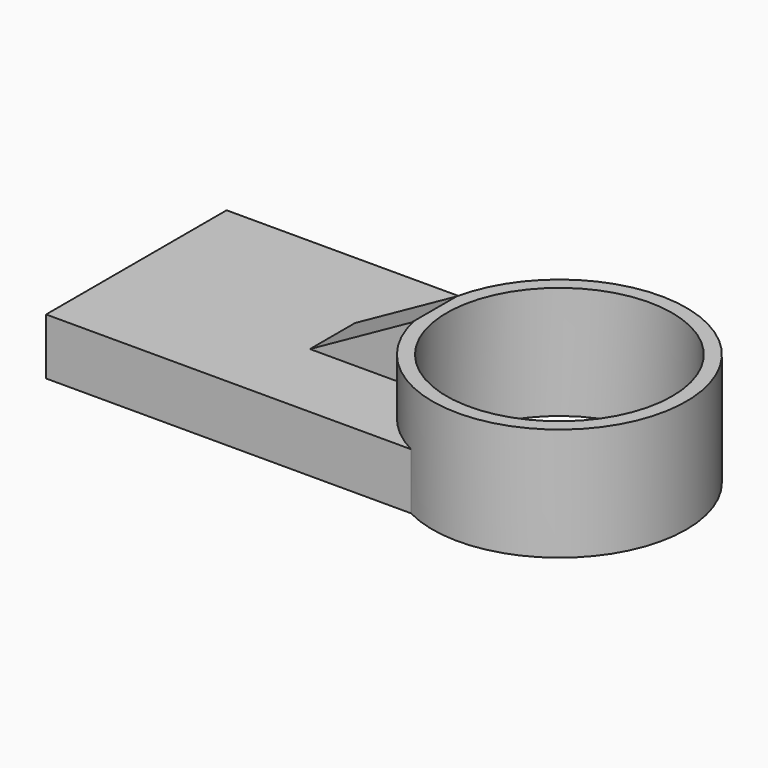
from build123d import *

# Parameters (mm, degrees)
F0_W     = 177.8
F0_H     = 101.6
F1_DEPTH = 25.4
F2_R     = 57.15
F2_R_2   = 50.8
F3_DEPTH = 50.8
F4_DEPTH = 25.4
F6_DEPTH = 25.4
F8_DEPTH = 25.4


with BuildPart() as f1:
    # F0 (on Top) → F1 (new body)
    with BuildSketch(Plane.XY):
        Rectangle(F0_W, F0_H)
    extrude(amount=F1_DEPTH)

    # F2 (on Top) → F3 (join)
    with BuildSketch(Plane.XY):
        with Locations((101.6, 0)):
            Circle(F2_R)
        with Locations((101.6, 0)):
            Circle(F2_R_2, mode=Mode.SUBTRACT)
    extrude(amount=F3_DEPTH)

    # F2 (on Top) + F3_face (on face) → F4 (cut)
    with BuildSketch(Plane.XY):
        with Locations((101.6, 0)):
            Circle(F2_R)
        with Locations((101.6, 0)):
            Circle(F2_R_2, mode=Mode.SUBTRACT)
    with BuildSketch(Plane(origin=(73.0309989911, 0, 25.4), x_dir=(1, 0, 0), z_dir=(0, 0, 1))):
        with BuildLine():
            ThreePointArc((15.8690010089, 49.1868884968), (-22.2309989911, 0), (15.8690010089, -49.1868884968))
            Line((15.8690010089, -49.1868884968), (15.8690010089, 49.1868884968))
        make_face()
    extrude(amount=-F4_DEPTH, mode=Mode.SUBTRACT)

    # F5 (on face) → F6 (join)
    with BuildSketch(Plane.XY.offset(25.4)):
        with BuildLine():
            Line((0, 11.9811560377), (0, -13.4188439623))
            Line((0, -13.4188439623), (45.72, -13.4188439623))
            Line((45.72, -13.4188439623), (45.72, -11.9811560377))
            ThreePointArc((45.72, -11.9811560377), (44.45, 0), (45.72, 11.9811560377))
            Line((45.72, 11.9811560377), (0, 11.9811560377))
        make_face()
    extrude(amount=F6_DEPTH)

    # F7 (on face) → F8 (cut)
    with BuildSketch(Plane.XZ.offset(13.4188439623)):
        Polygon((0, 25.4), (45.72, 50.8), (0, 50.8), align=None)
    extrude(amount=-F8_DEPTH, mode=Mode.SUBTRACT)


solid = f1.part
